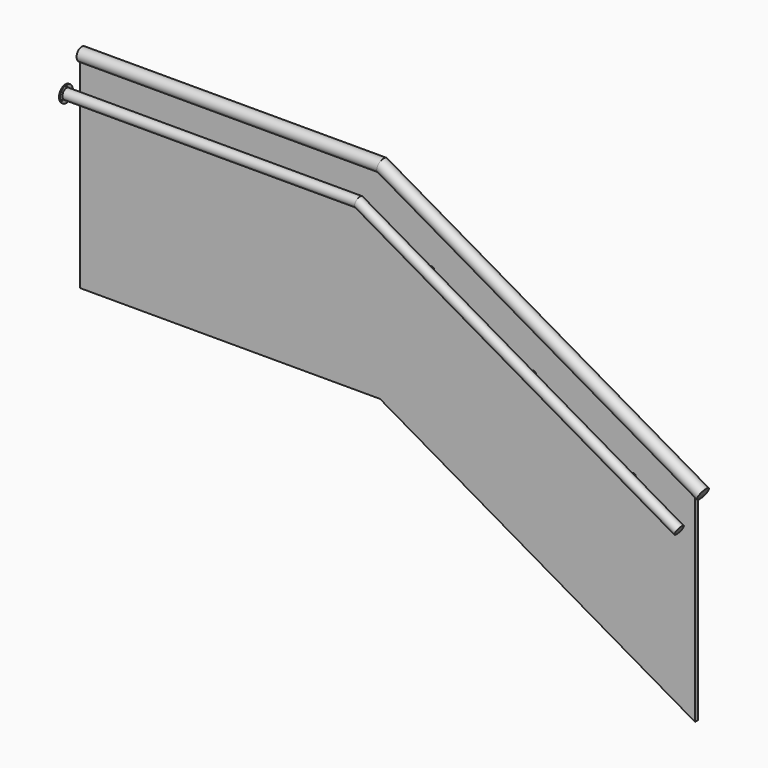
from build123d import *

# Parameters (mm, degrees)
F0_R      = 12
F1_DEPTH  = 9.5
F5_R      = 31.75
F6_DEPTH  = 2
F9_R      = 25
F9_R_2    = 23
F12_R     = 25
F13_DEPTH = 3
F14_R     = 40
F14_R_2   = 4
F14_R_3   = 25
F15_DEPTH = 5


with BuildPart() as f1:
    # F0 (on Front) → F1 (new body, symmetric)
    with BuildSketch(Plane.XZ):
        Polygon((0, 1000), (0, 0), (1475, 0), (3025.1854727741, -895), (3025.1854727741, 105), (1475, 1000), align=None)
        with Locations((568, 820)):
            Circle(F0_R, mode=Mode.SUBTRACT)
        with Locations((1126.7691453624, 820)):
            Circle(F0_R, mode=Mode.SUBTRACT)
        with Locations((2230.1741521, 356.1539030917)):
            Circle(F0_R, mode=Mode.SUBTRACT)
        with Locations((2722.0765814496, 72.1539030917)):
            Circle(F0_R, mode=Mode.SUBTRACT)
        with Locations((1729.878036687, 645)):
            Circle(F0_R, mode=Mode.SUBTRACT)
    extrude(amount=F1_DEPTH, both=True)


with BuildPart() as f4:
    # F4: sweep along a path in F2
    with BuildLine(Plane.XZ) as f4_path:
        Line((0, 1000), (1475, 1000))
        Line((1475, 1000), (3051.1662348877, 90))
    # F3 (on Right) → F4 (sweep)
    with BuildSketch(Plane.YZ):
        with BuildLine():
            Line((9.5, 1000), (9.5, 980))
            ThreePointArc((9.5, 980), (0, 1042.045420446), (-9.5, 980))
            Line((-9.5, 980), (-9.5, 1000))
            Line((-9.5, 1000), (9.5, 1000))
        make_face()
        with BuildLine():
            ThreePointArc((-11, 982.1163058396), (0, 1040.545420446), (11, 982.1163058396))
            Line((11, 982.1163058396), (11, 1001.5))
            Line((11, 1001.5), (-11, 1001.5))
            Line((-11, 1001.5), (-11, 982.1163058396))
        make_face(mode=Mode.SUBTRACT)
    sweep(path=f4_path.line, transition=Transition.RIGHT)

    # F5 (on face) → F6 (join)
    with BuildSketch(Plane(origin=(2249.4035329955, 0, -1298.693735291), x_dir=(0, 1, 0), z_dir=(0.8660254038, 0, -0.5))):
        with Locations((0, 1613.8208242304)):
            Circle(F5_R)
    extrude(amount=-F6_DEPTH)


with BuildPart() as f10:
    # F10: sweep along a path in F8
    with BuildLine(Plane.XZ.offset(100)) as f10_path:
        Line((0, 880), (1442.8460969083, 880))
        Line((1442.8460969083, 880), (3019.0123317959, -30))
    # F9 (on Right) → F10 (sweep)
    with BuildSketch(Plane.YZ):
        with Locations((-100, 880)):
            Circle(F9_R)
        with Locations((-100, 880)):
            Circle(F9_R_2, mode=Mode.SUBTRACT)
    sweep(path=f10_path.line, transition=Transition.RIGHT)

    # F12 (on face) → F13 (join)
    with BuildSketch(Plane(origin=(2277.2496299037, 0, -1314.7706868369), x_dir=(0, 1, 0), z_dir=(0.8660254038, 0, -0.5))):
        with Locations((-100, 1483.5254037844)):
            Circle(F12_R)
    extrude(amount=-F13_DEPTH)

    # F14 (on face) → F15 (join)
    with BuildSketch(Plane(origin=(0, 0, 0), x_dir=(0, -1, 0), z_dir=(-1, 0, 0))):
        with Locations((100, 880)):
            Circle(F14_R)
        with Locations((71.854174377, 863.75)):
            Circle(F14_R_2, mode=Mode.SUBTRACT)
        with Locations((128.145825623, 863.75)):
            Circle(F14_R_2, mode=Mode.SUBTRACT)
        with Locations((100, 880)):
            Circle(F14_R_3, mode=Mode.SUBTRACT)
        with Locations((100, 912.5)):
            Circle(F14_R_2, mode=Mode.SUBTRACT)
    extrude(amount=-F15_DEPTH)


solid = Compound([f1.part, f4.part, f10.part])
